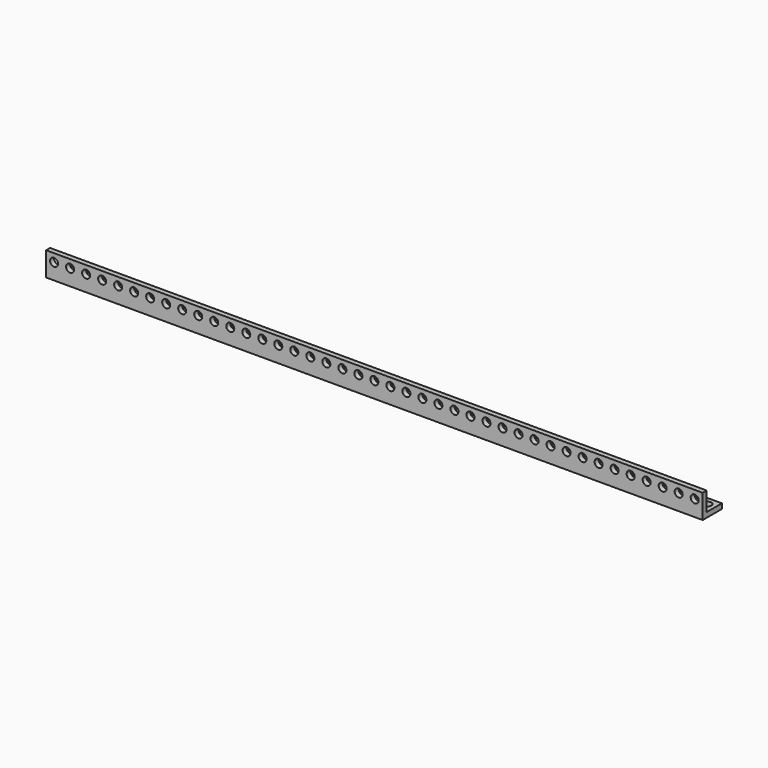
from build123d import *

# Parameters (mm, degrees)
F1_DEPTH  = 8
F2_DEPTH  = 16
F3_DEPTH  = 24
F4_DEPTH  = 32
F5_DEPTH  = 40
F6_DEPTH  = 48
F7_DEPTH  = 56
F8_DEPTH  = 64
F9_DEPTH  = 72
F10_DEPTH = 80
F11_DEPTH = 88
F12_DEPTH = 96
F13_DEPTH = 104
F14_DEPTH = 120
F15_DEPTH = 136
F16_DEPTH = 152
F17_DEPTH = 168
F18_DEPTH = 184
F19_DEPTH = 232
F20_DEPTH = 280
F21_DEPTH = 328
F22_R     = 2
F23_DEPTH = 12.001
F24_R     = 2
F25_DEPTH = 12.001


with BuildPart() as f1:
    # F0 (on Right) → F1 (new body)
    with BuildSketch(Plane.YZ):
        Polygon((0, 12), (0, 0), (12, 0), (12, 2.5), (2.5, 2.5), (2.5, 12), align=None)
    extrude(amount=F1_DEPTH)


with BuildPart() as f2:
    # F0 (on Right) → F2 (new body)
    with BuildSketch(Plane.YZ):
        Polygon((0, 12), (0, 0), (12, 0), (12, 2.5), (2.5, 2.5), (2.5, 12), align=None)
    extrude(amount=F2_DEPTH)


with BuildPart() as f3:
    # F0 (on Right) → F3 (new body)
    with BuildSketch(Plane.YZ):
        Polygon((0, 12), (0, 0), (12, 0), (12, 2.5), (2.5, 2.5), (2.5, 12), align=None)
    extrude(amount=F3_DEPTH)


with BuildPart() as f4:
    # F0 (on Right) → F4 (new body)
    with BuildSketch(Plane.YZ):
        Polygon((0, 12), (0, 0), (12, 0), (12, 2.5), (2.5, 2.5), (2.5, 12), align=None)
    extrude(amount=F4_DEPTH)


with BuildPart() as f5:
    # F0 (on Right) → F5 (new body)
    with BuildSketch(Plane.YZ):
        Polygon((0, 12), (0, 0), (12, 0), (12, 2.5), (2.5, 2.5), (2.5, 12), align=None)
    extrude(amount=F5_DEPTH)


with BuildPart() as f6:
    # F0 (on Right) → F6 (new body)
    with BuildSketch(Plane.YZ):
        Polygon((0, 12), (0, 0), (12, 0), (12, 2.5), (2.5, 2.5), (2.5, 12), align=None)
    extrude(amount=F6_DEPTH)


with BuildPart() as f7:
    # F0 (on Right) → F7 (new body)
    with BuildSketch(Plane.YZ):
        Polygon((0, 12), (0, 0), (12, 0), (12, 2.5), (2.5, 2.5), (2.5, 12), align=None)
    extrude(amount=F7_DEPTH)


with BuildPart() as f8:
    # F0 (on Right) → F8 (new body)
    with BuildSketch(Plane.YZ):
        Polygon((0, 12), (0, 0), (12, 0), (12, 2.5), (2.5, 2.5), (2.5, 12), align=None)
    extrude(amount=F8_DEPTH)


with BuildPart() as f9:
    # F0 (on Right) → F9 (new body)
    with BuildSketch(Plane.YZ):
        Polygon((0, 12), (0, 0), (12, 0), (12, 2.5), (2.5, 2.5), (2.5, 12), align=None)
    extrude(amount=F9_DEPTH)


with BuildPart() as f10:
    # F0 (on Right) → F10 (new body)
    with BuildSketch(Plane.YZ):
        Polygon((0, 12), (0, 0), (12, 0), (12, 2.5), (2.5, 2.5), (2.5, 12), align=None)
    extrude(amount=F10_DEPTH)


with BuildPart() as f11:
    # F0 (on Right) → F11 (new body)
    with BuildSketch(Plane.YZ):
        Polygon((0, 12), (0, 0), (12, 0), (12, 2.5), (2.5, 2.5), (2.5, 12), align=None)
    extrude(amount=F11_DEPTH)


with BuildPart() as f12:
    # F0 (on Right) → F12 (new body)
    with BuildSketch(Plane.YZ):
        Polygon((0, 12), (0, 0), (12, 0), (12, 2.5), (2.5, 2.5), (2.5, 12), align=None)
    extrude(amount=F12_DEPTH)


with BuildPart() as f13:
    # F0 (on Right) → F13 (new body)
    with BuildSketch(Plane.YZ):
        Polygon((0, 12), (0, 0), (12, 0), (12, 2.5), (2.5, 2.5), (2.5, 12), align=None)
    extrude(amount=F13_DEPTH)


with BuildPart() as f14:
    # F0 (on Right) → F14 (new body)
    with BuildSketch(Plane.YZ):
        Polygon((0, 12), (0, 0), (12, 0), (12, 2.5), (2.5, 2.5), (2.5, 12), align=None)
    extrude(amount=F14_DEPTH)


with BuildPart() as f15:
    # F0 (on Right) → F15 (new body)
    with BuildSketch(Plane.YZ):
        Polygon((0, 12), (0, 0), (12, 0), (12, 2.5), (2.5, 2.5), (2.5, 12), align=None)
    extrude(amount=F15_DEPTH)


with BuildPart() as f16:
    # F0 (on Right) → F16 (new body)
    with BuildSketch(Plane.YZ):
        Polygon((0, 12), (0, 0), (12, 0), (12, 2.5), (2.5, 2.5), (2.5, 12), align=None)
    extrude(amount=F16_DEPTH)


with BuildPart() as f17:
    # F0 (on Right) → F17 (new body)
    with BuildSketch(Plane.YZ):
        Polygon((0, 12), (0, 0), (12, 0), (12, 2.5), (2.5, 2.5), (2.5, 12), align=None)
    extrude(amount=F17_DEPTH)


with BuildPart() as f18:
    # F0 (on Right) → F18 (new body)
    with BuildSketch(Plane.YZ):
        Polygon((0, 12), (0, 0), (12, 0), (12, 2.5), (2.5, 2.5), (2.5, 12), align=None)
    extrude(amount=F18_DEPTH)


with BuildPart() as f19:
    # F0 (on Right) → F19 (new body)
    with BuildSketch(Plane.YZ):
        Polygon((0, 12), (0, 0), (12, 0), (12, 2.5), (2.5, 2.5), (2.5, 12), align=None)
    extrude(amount=F19_DEPTH)


with BuildPart() as f20:
    # F0 (on Right) → F20 (new body)
    with BuildSketch(Plane.YZ):
        Polygon((0, 12), (0, 0), (12, 0), (12, 2.5), (2.5, 2.5), (2.5, 12), align=None)
    extrude(amount=F20_DEPTH)


with BuildPart() as f21:
    # F0 (on Right) → F21 (new body)
    with BuildSketch(Plane.YZ):
        Polygon((0, 12), (0, 0), (12, 0), (12, 2.5), (2.5, 2.5), (2.5, 12), align=None)
    extrude(amount=F21_DEPTH)


with BuildPart() as f23_tool:
    # F22 (on Front) → F23 (new body, through all)
    with BuildSketch(Plane.XZ):
        with Locations((4, 8)):
            Circle(F22_R)
        with Locations((12, 8)):
            Circle(F22_R)
        with Locations((20, 8)):
            Circle(F22_R)
        with Locations((28, 8)):
            Circle(F22_R)
        with Locations((36, 8)):
            Circle(F22_R)
        with Locations((44, 8)):
            Circle(F22_R)
        with Locations((52, 8)):
            Circle(F22_R)
        with Locations((60, 8)):
            Circle(F22_R)
        with Locations((68, 8)):
            Circle(F22_R)
        with Locations((76, 8)):
            Circle(F22_R)
        with Locations((84, 8)):
            Circle(F22_R)
        with Locations((92, 8)):
            Circle(F22_R)
        with Locations((100, 8)):
            Circle(F22_R)
        with Locations((108, 8)):
            Circle(F22_R)
        with Locations((116, 8)):
            Circle(F22_R)
        with Locations((124, 8)):
            Circle(F22_R)
        with Locations((132, 8)):
            Circle(F22_R)
        with Locations((140, 8)):
            Circle(F22_R)
        with Locations((148, 8)):
            Circle(F22_R)
        with Locations((156, 8)):
            Circle(F22_R)
        with Locations((164, 8)):
            Circle(F22_R)
        with Locations((172, 8)):
            Circle(F22_R)
        with Locations((180, 8)):
            Circle(F22_R)
        with Locations((188, 8)):
            Circle(F22_R)
        with Locations((196, 8)):
            Circle(F22_R)
        with Locations((204, 8)):
            Circle(F22_R)
        with Locations((212, 8)):
            Circle(F22_R)
        with Locations((220, 8)):
            Circle(F22_R)
        with Locations((228, 8)):
            Circle(F22_R)
        with Locations((236, 8)):
            Circle(F22_R)
        with Locations((244, 8)):
            Circle(F22_R)
        with Locations((252, 8)):
            Circle(F22_R)
        with Locations((260, 8)):
            Circle(F22_R)
        with Locations((268, 8)):
            Circle(F22_R)
        with Locations((276, 8)):
            Circle(F22_R)
        with Locations((284, 8)):
            Circle(F22_R)
        with Locations((292, 8)):
            Circle(F22_R)
        with Locations((300, 8)):
            Circle(F22_R)
        with Locations((308, 8)):
            Circle(F22_R)
        with Locations((316, 8)):
            Circle(F22_R)
        with Locations((324, 8)):
            Circle(F22_R)
    extrude(amount=-F23_DEPTH)


with BuildPart() as f1_1:
    add(f1.part)

    # F23: cut by f23_tool
    add(f23_tool.part, mode=Mode.SUBTRACT)


with BuildPart() as f2_1:
    add(f2.part)

    # F23: cut by f23_tool
    add(f23_tool.part, mode=Mode.SUBTRACT)


with BuildPart() as f3_1:
    add(f3.part)

    # F23: cut by f23_tool
    add(f23_tool.part, mode=Mode.SUBTRACT)


with BuildPart() as f4_1:
    add(f4.part)

    # F23: cut by f23_tool
    add(f23_tool.part, mode=Mode.SUBTRACT)


with BuildPart() as f5_1:
    add(f5.part)

    # F23: cut by f23_tool
    add(f23_tool.part, mode=Mode.SUBTRACT)


with BuildPart() as f6_1:
    add(f6.part)

    # F23: cut by f23_tool
    add(f23_tool.part, mode=Mode.SUBTRACT)


with BuildPart() as f7_1:
    add(f7.part)

    # F23: cut by f23_tool
    add(f23_tool.part, mode=Mode.SUBTRACT)


with BuildPart() as f8_1:
    add(f8.part)

    # F23: cut by f23_tool
    add(f23_tool.part, mode=Mode.SUBTRACT)


with BuildPart() as f9_1:
    add(f9.part)

    # F23: cut by f23_tool
    add(f23_tool.part, mode=Mode.SUBTRACT)


with BuildPart() as f10_1:
    add(f10.part)

    # F23: cut by f23_tool
    add(f23_tool.part, mode=Mode.SUBTRACT)


with BuildPart() as f11_1:
    add(f11.part)

    # F23: cut by f23_tool
    add(f23_tool.part, mode=Mode.SUBTRACT)


with BuildPart() as f12_1:
    add(f12.part)

    # F23: cut by f23_tool
    add(f23_tool.part, mode=Mode.SUBTRACT)


with BuildPart() as f13_1:
    add(f13.part)

    # F23: cut by f23_tool
    add(f23_tool.part, mode=Mode.SUBTRACT)


with BuildPart() as f14_1:
    add(f14.part)

    # F23: cut by f23_tool
    add(f23_tool.part, mode=Mode.SUBTRACT)


with BuildPart() as f15_1:
    add(f15.part)

    # F23: cut by f23_tool
    add(f23_tool.part, mode=Mode.SUBTRACT)


with BuildPart() as f16_1:
    add(f16.part)

    # F23: cut by f23_tool
    add(f23_tool.part, mode=Mode.SUBTRACT)


with BuildPart() as f17_1:
    add(f17.part)

    # F23: cut by f23_tool
    add(f23_tool.part, mode=Mode.SUBTRACT)


with BuildPart() as f18_1:
    add(f18.part)

    # F23: cut by f23_tool
    add(f23_tool.part, mode=Mode.SUBTRACT)


with BuildPart() as f19_1:
    add(f19.part)

    # F23: cut by f23_tool
    add(f23_tool.part, mode=Mode.SUBTRACT)


with BuildPart() as f20_1:
    add(f20.part)

    # F23: cut by f23_tool
    add(f23_tool.part, mode=Mode.SUBTRACT)


with BuildPart() as f21_1:
    add(f21.part)

    # F23: cut by f23_tool
    add(f23_tool.part, mode=Mode.SUBTRACT)


with BuildPart() as f25_tool:
    # F24 (on Top) → F25 (new body, through all)
    with BuildSketch(Plane.XY):
        with Locations((4, 8)):
            Circle(F24_R)
        with Locations((12, 8)):
            Circle(F24_R)
        with Locations((20, 8)):
            Circle(F24_R)
        with Locations((28, 8)):
            Circle(F24_R)
        with Locations((36, 8)):
            Circle(F24_R)
        with Locations((44, 8)):
            Circle(F24_R)
        with Locations((52, 8)):
            Circle(F24_R)
        with Locations((60, 8)):
            Circle(F24_R)
        with Locations((68, 8)):
            Circle(F24_R)
        with Locations((76, 8)):
            Circle(F24_R)
        with Locations((84, 8)):
            Circle(F24_R)
        with Locations((92, 8)):
            Circle(F24_R)
        with Locations((100, 8)):
            Circle(F24_R)
        with Locations((108, 8)):
            Circle(F24_R)
        with Locations((116, 8)):
            Circle(F24_R)
        with Locations((124, 8)):
            Circle(F24_R)
        with Locations((132, 8)):
            Circle(F24_R)
        with Locations((140, 8)):
            Circle(F24_R)
        with Locations((148, 8)):
            Circle(F24_R)
        with Locations((156, 8)):
            Circle(F24_R)
        with Locations((164, 8)):
            Circle(F24_R)
        with Locations((172, 8)):
            Circle(F24_R)
        with Locations((180, 8)):
            Circle(F24_R)
        with Locations((188, 8)):
            Circle(F24_R)
        with Locations((196, 8)):
            Circle(F24_R)
        with Locations((204, 8)):
            Circle(F24_R)
        with Locations((212, 8)):
            Circle(F24_R)
        with Locations((220, 8)):
            Circle(F24_R)
        with Locations((228, 8)):
            Circle(F24_R)
        with Locations((236, 8)):
            Circle(F24_R)
        with Locations((244, 8)):
            Circle(F24_R)
        with Locations((252, 8)):
            Circle(F24_R)
        with Locations((260, 8)):
            Circle(F24_R)
        with Locations((268, 8)):
            Circle(F24_R)
        with Locations((276, 8)):
            Circle(F24_R)
        with Locations((284, 8)):
            Circle(F24_R)
        with Locations((292, 8)):
            Circle(F24_R)
        with Locations((300, 8)):
            Circle(F24_R)
        with Locations((308, 8)):
            Circle(F24_R)
        with Locations((316, 8)):
            Circle(F24_R)
        with Locations((324, 8)):
            Circle(F24_R)
    extrude(amount=F25_DEPTH)


with BuildPart() as f1_2:
    add(f1_1.part)

    # F25: cut by f25_tool
    add(f25_tool.part, mode=Mode.SUBTRACT)


with BuildPart() as f2_2:
    add(f2_1.part)

    # F25: cut by f25_tool
    add(f25_tool.part, mode=Mode.SUBTRACT)


with BuildPart() as f3_2:
    add(f3_1.part)

    # F25: cut by f25_tool
    add(f25_tool.part, mode=Mode.SUBTRACT)


with BuildPart() as f4_2:
    add(f4_1.part)

    # F25: cut by f25_tool
    add(f25_tool.part, mode=Mode.SUBTRACT)


with BuildPart() as f5_2:
    add(f5_1.part)

    # F25: cut by f25_tool
    add(f25_tool.part, mode=Mode.SUBTRACT)


with BuildPart() as f6_2:
    add(f6_1.part)

    # F25: cut by f25_tool
    add(f25_tool.part, mode=Mode.SUBTRACT)


with BuildPart() as f7_2:
    add(f7_1.part)

    # F25: cut by f25_tool
    add(f25_tool.part, mode=Mode.SUBTRACT)


with BuildPart() as f8_2:
    add(f8_1.part)

    # F25: cut by f25_tool
    add(f25_tool.part, mode=Mode.SUBTRACT)


with BuildPart() as f9_2:
    add(f9_1.part)

    # F25: cut by f25_tool
    add(f25_tool.part, mode=Mode.SUBTRACT)


with BuildPart() as f10_2:
    add(f10_1.part)

    # F25: cut by f25_tool
    add(f25_tool.part, mode=Mode.SUBTRACT)


with BuildPart() as f11_2:
    add(f11_1.part)

    # F25: cut by f25_tool
    add(f25_tool.part, mode=Mode.SUBTRACT)


with BuildPart() as f12_2:
    add(f12_1.part)

    # F25: cut by f25_tool
    add(f25_tool.part, mode=Mode.SUBTRACT)


with BuildPart() as f13_2:
    add(f13_1.part)

    # F25: cut by f25_tool
    add(f25_tool.part, mode=Mode.SUBTRACT)


with BuildPart() as f14_2:
    add(f14_1.part)

    # F25: cut by f25_tool
    add(f25_tool.part, mode=Mode.SUBTRACT)


with BuildPart() as f15_2:
    add(f15_1.part)

    # F25: cut by f25_tool
    add(f25_tool.part, mode=Mode.SUBTRACT)


with BuildPart() as f16_2:
    add(f16_1.part)

    # F25: cut by f25_tool
    add(f25_tool.part, mode=Mode.SUBTRACT)


with BuildPart() as f17_2:
    add(f17_1.part)

    # F25: cut by f25_tool
    add(f25_tool.part, mode=Mode.SUBTRACT)


with BuildPart() as f18_2:
    add(f18_1.part)

    # F25: cut by f25_tool
    add(f25_tool.part, mode=Mode.SUBTRACT)


with BuildPart() as f19_2:
    add(f19_1.part)

    # F25: cut by f25_tool
    add(f25_tool.part, mode=Mode.SUBTRACT)


with BuildPart() as f20_2:
    add(f20_1.part)

    # F25: cut by f25_tool
    add(f25_tool.part, mode=Mode.SUBTRACT)


with BuildPart() as f21_2:
    add(f21_1.part)

    # F25: cut by f25_tool
    add(f25_tool.part, mode=Mode.SUBTRACT)


solid = Compound([f1_2.part, f2_2.part, f3_2.part, f4_2.part, f5_2.part, f6_2.part, f7_2.part, f8_2.part, f9_2.part, f10_2.part, f11_2.part, f12_2.part, f13_2.part, f14_2.part, f15_2.part, f16_2.part, f17_2.part, f18_2.part, f19_2.part, f20_2.part, f21_2.part])
